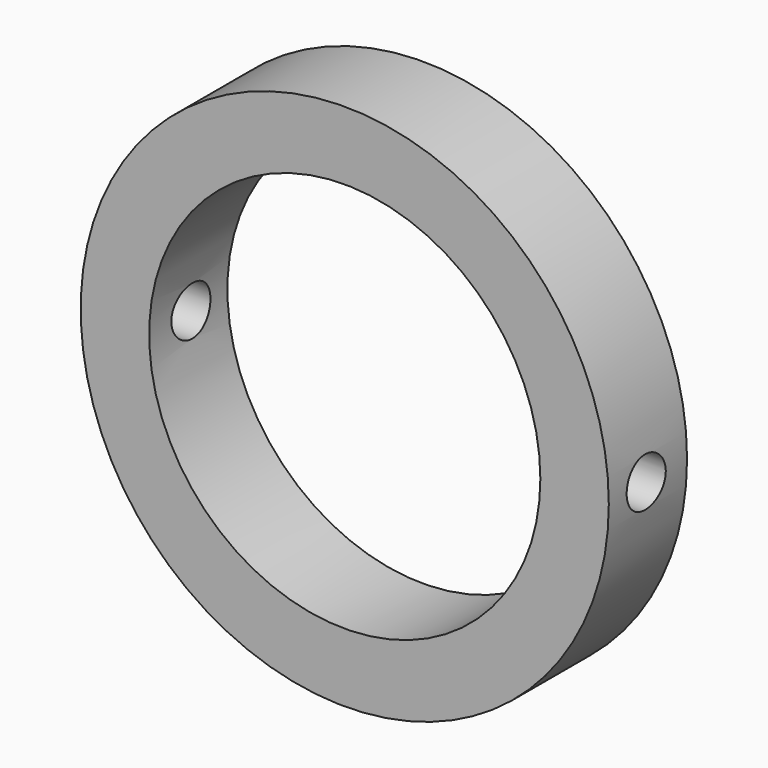
from build123d import *

# Parameters (mm, degrees)
F0_R     = 27.0011142562
F0_R_2   = 20
F1_DEPTH = 10
F3_D     = 5
F3_DEPTH = 27.0021142562
F5_D     = 5
F5_DEPTH = 27.0021143562


with BuildPart() as f1:
    # F0 (on Front) → F1 (new body)
    with BuildSketch(Plane.XZ):
        Circle(F0_R)
        Circle(F0_R_2, mode=Mode.SUBTRACT)
    extrude(amount=F1_DEPTH)

    # F3 (through all, one way)
    with BuildSketch(Plane.YZ):
        with Locations((-4.6664830297, 0)):
            Circle(F3_D / 2)
    extrude(amount=-F3_DEPTH, mode=Mode.SUBTRACT)

    # F5 (through all, one way)
    with BuildSketch(Plane(origin=(0, 0, 0), x_dir=(0, 1, 0), z_dir=(-1, 0, 0))):
        with Locations((-5.219371058, 0)):
            Circle(F5_D / 2)
    extrude(amount=-F5_DEPTH, mode=Mode.SUBTRACT)


solid = f1.part
